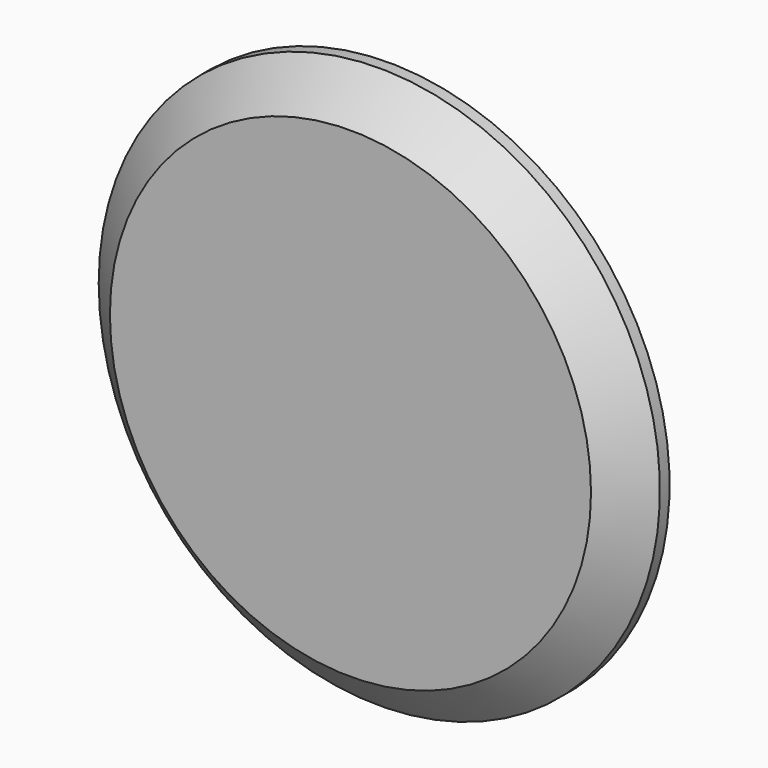
from build123d import *

# Parameters (mm, degrees)
F3_D     = 5
F3_DEPTH = 2
F3_TIP   = 1.5021515476


with BuildPart() as f1:
    # F0 (on Top) → F1 (revolve)
    with BuildSketch(Plane.XY):
        with BuildLine():
            Line((-28, 0), (-35, 0))
            Line((-35, 0), (-35, -1.5))
            Line((-35, -1.5), (-30, -6))
            Line((-30, -6), (0, -6))
            Line((0, -6), (0, -4))
            Line((0, -4), (-27.5, -4))
            ThreePointArc((-27.5, -4), (-27.8535533906, -3.8535533906), (-28, -3.5))
            Line((-28, -3.5), (-28, 0))
        make_face()
    revolve(axis=Axis((0, -2.242507413, 0), (0, -1, 0)))

    # F3
    with Locations(Plane(origin=(0, 0, 0), x_dir=(1, 0, 0), z_dir=(0, 1, 0))):
        with Locations((0, -31.5), (29.9582802633, -9.7340353228), (18.5152354472, 25.4840353228), (-18.5152354472, 25.4840353228), (-29.9582802633, -9.7340353228)):
            Hole(F3_D / 2, depth=F3_DEPTH)
            with Locations((0, 0, -(F3_DEPTH + F3_TIP / 2))):  # 118° drill point
                Cone(0, F3_D / 2, F3_TIP, mode=Mode.SUBTRACT)


solid = f1.part
